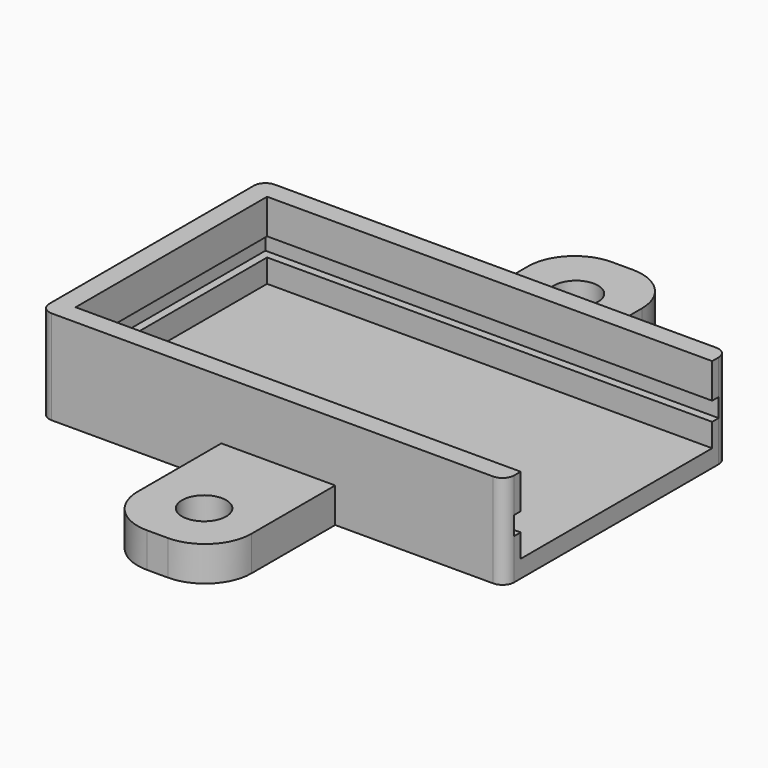
from build123d import *

# Parameters (mm, degrees)
BOX007_W          = 39
BOX007_H          = 22
BOX007_DEPTH      = 1.6
BOX006_W          = 38.6
BOX006_H          = 20.6
BOX006_DEPTH      = 6.6
BOX_W             = 40
BOX_H             = 24
BOX_DEPTH         = 8.1
FILLET_R          = 1
CYLINDER001_R     = 1.9
CYLINDER001_DEPTH = 10
ARRAY002_Y_COUNT  = 2
ARRAY002_Y_PITCH  = 40
BOX005_W          = 9.8
BOX005_H          = 50
BOX005_DEPTH      = 3
FILLET002_R       = 4


with BuildPart() as pcb_extract_cube:
    # Box007 → Box007 (new body)
    with BuildSketch(Plane(origin=(1, 1, 3.5), x_dir=(1, 0, 0), z_dir=(0, 0, 1))):
        with Locations((19.5, 11)):
            Rectangle(BOX007_W, BOX007_H)
    extrude(amount=BOX007_DEPTH)


with BuildPart() as extract_fusion:
    # Box006 → Box006 (new body)
    with BuildSketch(Plane(origin=(1.7, 1.7, 1.5), x_dir=(1, 0, 0), z_dir=(0, 0, 1))):
        with Locations((19.3, 10.3)):
            Rectangle(BOX006_W, BOX006_H)
    extrude(amount=BOX006_DEPTH)

    # Fusion: union pcb extract cube
    add(pcb_extract_cube.part)


with BuildPart() as external_fillet:
    # Box → Box (new body)
    with BuildSketch(Plane.XY):
        with Locations((20, 12)):
            Rectangle(BOX_W, BOX_H)
    extrude(amount=BOX_DEPTH)

    # Fillet
    fillet_edges = [external_fillet.edges().sort_by_distance(p)[0] for p in [
        (0, 0, 4.05),
        (0, 24, 4.05),
        (40, 0, 4.05),
        (40, 24, 4.05),
    ]]
    fillet(fillet_edges, radius=FILLET_R)


with BuildPart() as attach_hole_array:
    # Cylinder001 → Cylinder001 (new body)
    with BuildSketch(Plane(origin=(5, 4.9, 0), x_dir=(1, 0, 0), z_dir=(0, 0, 1))):
        Circle(CYLINDER001_R)
    extrude(amount=CYLINDER001_DEPTH)

    # Array002 Y: attach hole array ×2


with BuildPart() as attach_hole_array_1:
    add(attach_hole_array.part)
    with Locations(*[(0, i * ARRAY002_Y_PITCH, 0) for i in range(1, ARRAY002_Y_COUNT)]):
        add(attach_hole_array.part)


with BuildPart() as obj1:
    # Box005 → Box005 (new body)
    with BuildSketch(Plane.XY):
        with Locations((4.9, 25)):
            Rectangle(BOX005_W, BOX005_H)
    extrude(amount=BOX005_DEPTH)

    # Fillet002
    fillet002_edges = [obj1.edges().sort_by_distance(p)[0] for p in [
        (0, 0, 1.5),
        (0, 50, 1.5),
        (9.8, 0, 1.5),
        (9.8, 50, 1.5),
    ]]
    fillet(fillet002_edges, radius=FILLET002_R)

    # Cut002: cut attach hole array
    add(attach_hole_array_1.part, mode=Mode.SUBTRACT)


with BuildPart() as obj1_1:
    # Cut002 placement: moved
    add(obj1.part.moved(Location((15.6, -13, 0))))

    # Fusion001: union external fillet
    add(external_fillet.part)

    # Cut: cut extract fusion
    add(extract_fusion.part, mode=Mode.SUBTRACT)


solid = obj1_1.part
